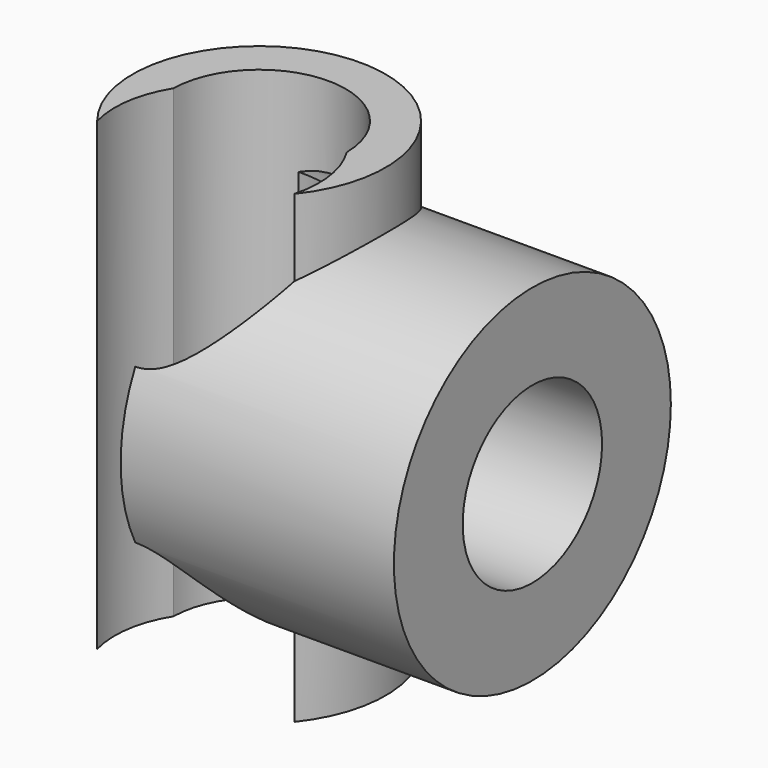
from build123d import *

# Parameters (mm, degrees)
F0_R     = 40.915228
F0_R_2   = 28.015967
F1_DEPTH = 74.676
F2_DEPTH = 75.692
F3_R     = 55.991945
F3_R_2   = 28.179718
F4_DEPTH = 88.392
F6_R     = 33.015508
F7_DEPTH = 170.18


with BuildPart() as f1:
    # F0 (on Top) → F1 (new body)
    with BuildSketch(Plane.XY):
        Circle(F0_R)
        Circle(F0_R_2, mode=Mode.SUBTRACT)
    extrude(amount=F1_DEPTH)

    # F0 (on Top) → F2 (join)
    with BuildSketch(Plane.XY):
        Circle(F0_R)
        Circle(F0_R_2, mode=Mode.SUBTRACT)
    extrude(amount=-F2_DEPTH)

    # F3 (on Right) → F4 (join)
    with BuildSketch(Plane.YZ):
        Circle(F3_R)
        Circle(F3_R_2, mode=Mode.SUBTRACT)
    extrude(amount=F4_DEPTH)

    # F6 (on face) → F7 (cut)
    with BuildSketch(Plane.XY.offset(74.676)):
        with Locations((0, -17.064605)):
            Circle(F6_R)
    extrude(amount=-F7_DEPTH, mode=Mode.SUBTRACT)


solid = f1.part
